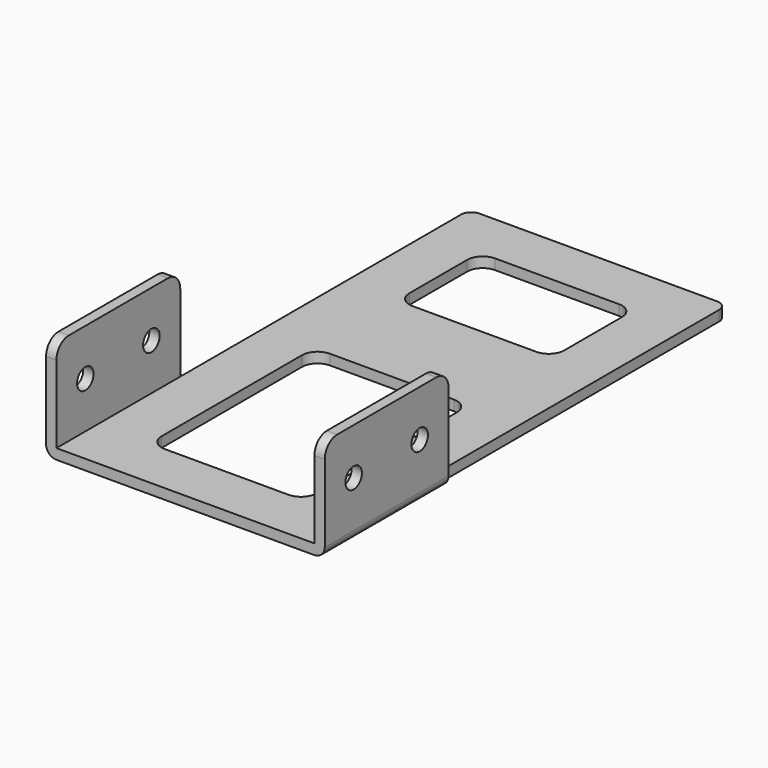
from build123d import *

# Parameters (mm, degrees)
CYLINDER001_R     = 2
CYLINDER001_DEPTH = 4
CYLINDER_R        = 2
CYLINDER_DEPTH    = 4
BOX003_W          = 2
BOX003_H          = 30
BOX003_DEPTH      = 20
FILLET_R          = 3
BOX002_W          = 30
BOX002_H          = 40
BOX002_DEPTH      = 2.4
BOX001_W          = 30
BOX001_H          = 20
BOX001_DEPTH      = 2.4
BOX_W             = 50
BOX_H             = 100
BOX_DEPTH         = 2
FILLET002_R       = 3
FILLET003_R       = 2
CYLINDER003_R     = 2
CYLINDER003_DEPTH = 4
CYLINDER002_R     = 2
CYLINDER002_DEPTH = 4
BOX004_W          = 2
BOX004_H          = 30
BOX004_DEPTH      = 20
FILLET001_R       = 3
FILLET004_R       = 2


with BuildPart() as cylinder001:
    # Cylinder001 → Cylinder001 (new body)
    with BuildSketch(Plane(origin=(-3, 23, 11), x_dir=(0, 0, -1), z_dir=(1, 0, 0))):
        Circle(CYLINDER001_R)
    extrude(amount=CYLINDER001_DEPTH)


with BuildPart() as fusion001:
    # Cylinder → Cylinder (new body)
    with BuildSketch(Plane(origin=(-3, 7, 11), x_dir=(0, 0, -1), z_dir=(1, 0, 0))):
        Circle(CYLINDER_R)
    extrude(amount=CYLINDER_DEPTH)

    # Fusion001: union Cylinder001
    add(cylinder001.part)


with BuildPart() as obj1:
    # Box003 → Box003 (new body)
    with BuildSketch(Plane(origin=(-2, 0, 0), x_dir=(1, 0, 0), z_dir=(0, 0, 1))):
        with Locations((1, 15)):
            Rectangle(BOX003_W, BOX003_H)
    extrude(amount=BOX003_DEPTH)

    # Cut001: cut Fusion001
    add(fusion001.part, mode=Mode.SUBTRACT)

    # Fillet
    fillet_edges = [obj1.edges().sort_by_distance(p)[0] for p in [
        (-1, 0, 20),
        (-1, 30, 20),
    ]]
    fillet(fillet_edges, radius=FILLET_R)


with BuildPart() as hueco_inferior_40x30:
    # Box002 → Box002 (new body)
    with BuildSketch(Plane(origin=(10, 10, -0.2), x_dir=(1, 0, 0), z_dir=(0, 0, 1))):
        with Locations((15, 20)):
            Rectangle(BOX002_W, BOX002_H)
    extrude(amount=BOX002_DEPTH)


with BuildPart() as huecos_base:
    # Box001 → Box001 (new body)
    with BuildSketch(Plane(origin=(10, 70, -0.2), x_dir=(1, 0, 0), z_dir=(0, 0, 1))):
        with Locations((15, 10)):
            Rectangle(BOX001_W, BOX001_H)
    extrude(amount=BOX001_DEPTH)

    # Fusion: union hueco_inferior_40x30
    add(hueco_inferior_40x30.part)


with BuildPart() as obj2:
    # Box → Box (new body)
    with BuildSketch(Plane.XY):
        with Locations((25, 50)):
            Rectangle(BOX_W, BOX_H)
    extrude(amount=BOX_DEPTH)

    # Cut: cut huecos_base
    add(huecos_base.part, mode=Mode.SUBTRACT)

    # Fillet002
    fillet002_edges = [obj2.edges().sort_by_distance(p)[0] for p in [
        (40, 70, 1),
        (10, 70, 1),
        (40, 90, 1),
        (10, 90, 1),
        (40, 10, 1),
        (10, 10, 1),
        (40, 50, 1),
        (10, 50, 1),
    ]]
    fillet(fillet002_edges, radius=FILLET002_R)

    # Fillet003
    fillet003_edges = [obj2.edges().sort_by_distance(p)[0] for p in [
        (0, 100, 1),
        (50, 100, 1),
    ]]
    fillet(fillet003_edges, radius=FILLET003_R)


with BuildPart() as cylinder003:
    # Cylinder003 → Cylinder003 (new body)
    with BuildSketch(Plane(origin=(-3, 23, 11), x_dir=(0, 0, -1), z_dir=(1, 0, 0))):
        Circle(CYLINDER003_R)
    extrude(amount=CYLINDER003_DEPTH)


with BuildPart() as fusion002:
    # Cylinder002 → Cylinder002 (new body)
    with BuildSketch(Plane(origin=(-3, 7, 11), x_dir=(0, 0, -1), z_dir=(1, 0, 0))):
        Circle(CYLINDER002_R)
    extrude(amount=CYLINDER002_DEPTH)

    # Fusion002: union Cylinder003
    add(cylinder003.part)


with BuildPart() as pieza_final:
    # Box004 → Box004 (new body)
    with BuildSketch(Plane(origin=(-2, 0, 0), x_dir=(1, 0, 0), z_dir=(0, 0, 1))):
        with Locations((1, 15)):
            Rectangle(BOX004_W, BOX004_H)
    extrude(amount=BOX004_DEPTH)

    # Cut002: cut Fusion002
    add(fusion002.part, mode=Mode.SUBTRACT)

    # Fillet001
    fillet001_edges = [pieza_final.edges().sort_by_distance(p)[0] for p in [
        (-1, 0, 20),
        (-1, 30, 20),
    ]]
    fillet(fillet001_edges, radius=FILLET001_R)


with BuildPart() as pieza_final_1:
    # Fillet001 placement: moved
    add(pieza_final.part.moved(Location((52, 0, 0))))

    # Fusion003: union obj1, obj2
    add(obj1.part)
    add(obj2.part)

    # Fillet004
    fillet004_edges = [pieza_final_1.edges().sort_by_distance(p)[0] for p in [
        (52, 15, 0),
        (-2, 15, 0),
    ]]
    fillet(fillet004_edges, radius=FILLET004_R)


solid = pieza_final_1.part
